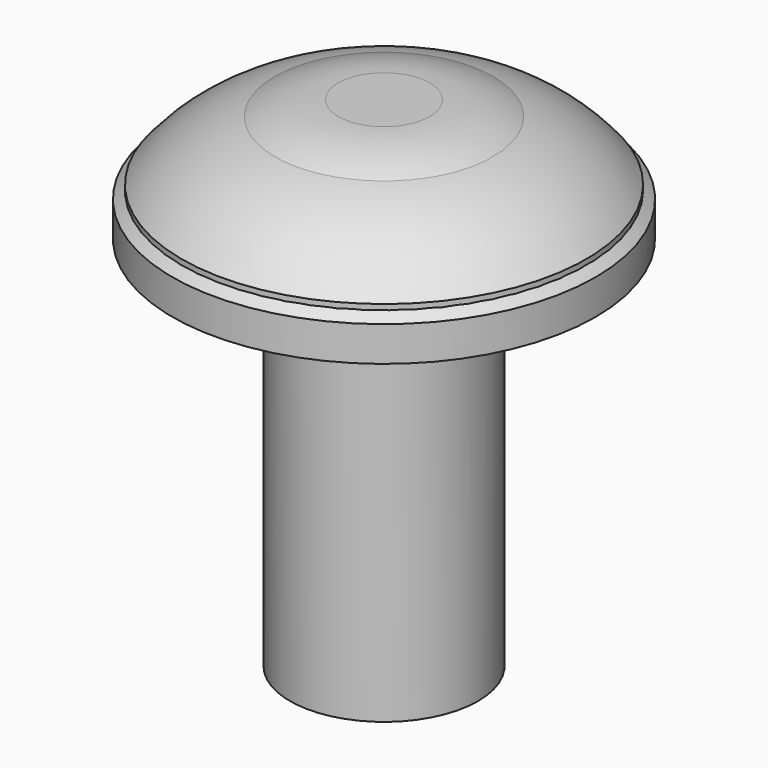
from build123d import *

# Parameters (mm, degrees)
F2_R      = 1
F3_DEPTH  = 4
F6_R      = 1
F7_DEPTH  = 4
F10_R     = 1
F11_DEPTH = 4


with BuildPart() as f1:
    # F0 (on Front) → F1 (revolve)
    with BuildSketch(Plane.XZ):
        with BuildLine():
            Line((0, 1.3), (0, 0))
            Line((0, 0), (1.75, 0))
            Line((1.75, 0), (1.75, 0.6278591463))
            ThreePointArc((1.75, 0.6278591463), (1.2013542978, 1.1215289152), (0.4852048587, 1.3))
            Line((0.4852048587, 1.3), (0, 1.3))
        make_face()
    revolve(axis=Axis((0, 0, 0.65), (0, 0, -1)))

    # F2 (on face) → F3 (join)
    with BuildSketch(Plane(origin=(0, 0, 0), x_dir=(1, 0, 0), z_dir=(0, 0, -1))):
        Circle(F2_R)
    extrude(amount=F3_DEPTH)


with BuildPart() as f5:
    # F4 (on Front) → F5 (revolve)
    with BuildSketch(Plane.XZ):
        with BuildLine():
            Line((-2.15, 0), (0, 0))
            Line((0, 0), (0, 1.2))
            Line((0, 1.2), (-0.7037581527, 1.2))
            ThreePointArc((-0.7037581527, 1.2), (-1.5053500961, 1.0181497263), (-2.15, 0.5082029966))
            Line((-2.15, 0.5082029966), (-2.15, 0))
        make_face()
    revolve(axis=Axis((0, 0, 0.6), (0, 0, 1)))

    # F6 (on face) → F7 (join)
    with BuildSketch(Plane(origin=(0, 0, 0), x_dir=(1, 0, 0), z_dir=(0, 0, -1))):
        Circle(F6_R)
    extrude(amount=F7_DEPTH)


with BuildPart() as f9:
    # F8 (on Front) → F9 (revolve)
    with BuildSketch(Plane.XZ):
        with BuildLine():
            Line((2.25, 0), (2.25, 0.3721266112))
            ThreePointArc((2.25, 0.3721266112), (1.1987362458, 0.9864641824), (0, 1.2))
            Line((0, 1.2), (0, 0))
            Line((0, 0), (2.25, 0))
        make_face()
    revolve(axis=Axis((0, 0, 0.6), (0, 0, 1)))

    # F10 (on face) → F11 (join)
    with BuildSketch(Plane(origin=(0, 0, 0), x_dir=(1, 0, 0), z_dir=(0, 0, -1))):
        Circle(F10_R)
    extrude(amount=F11_DEPTH)


solid = Compound([f1.part, f5.part, f9.part])
